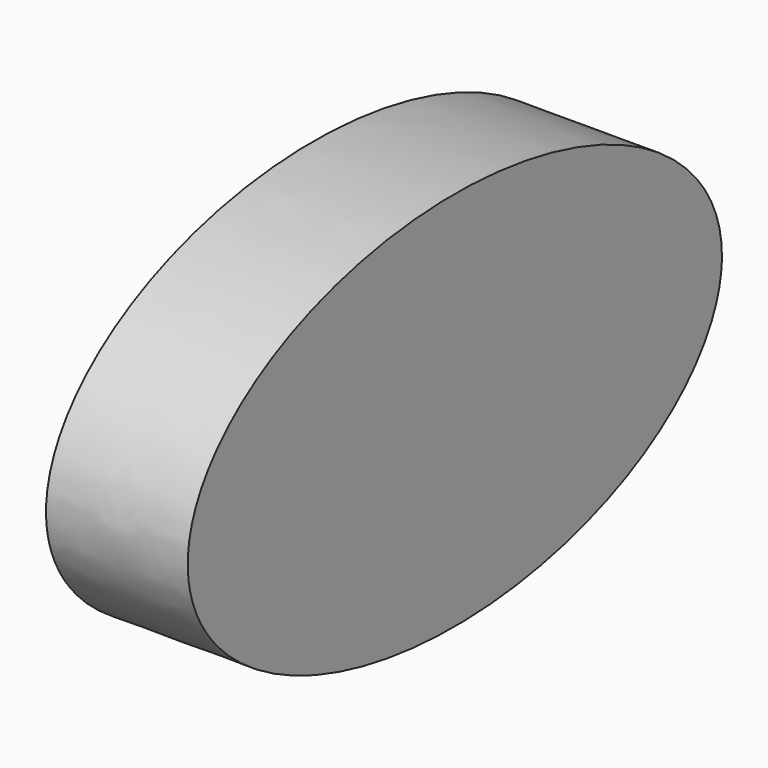
from build123d import *

# Parameters (mm, degrees)
F1_DEPTH = 12.7


with BuildPart() as f1:
    # F0 (on Right) → F1 (new body)
    with BuildSketch(Plane.YZ):
        with BuildLine():
            add(Edge.make_bspline(
                [(29.916784, 0), (29.916784, 29.560926), (-14.958392, 14.780463), (-59.833568, 0), (-14.958392, -14.780463), (29.916784, -29.560926), (29.916784, 0)],
                knots=[0, 0, 0, 2.094395, 2.094395, 4.18879, 4.18879, 6.283185, 6.283185, 6.283185], degree=2, weights=[1, 0.5, 1, 0.5, 1, 0.5, 1]))
        make_face()
    extrude(amount=F1_DEPTH)


solid = f1.part
